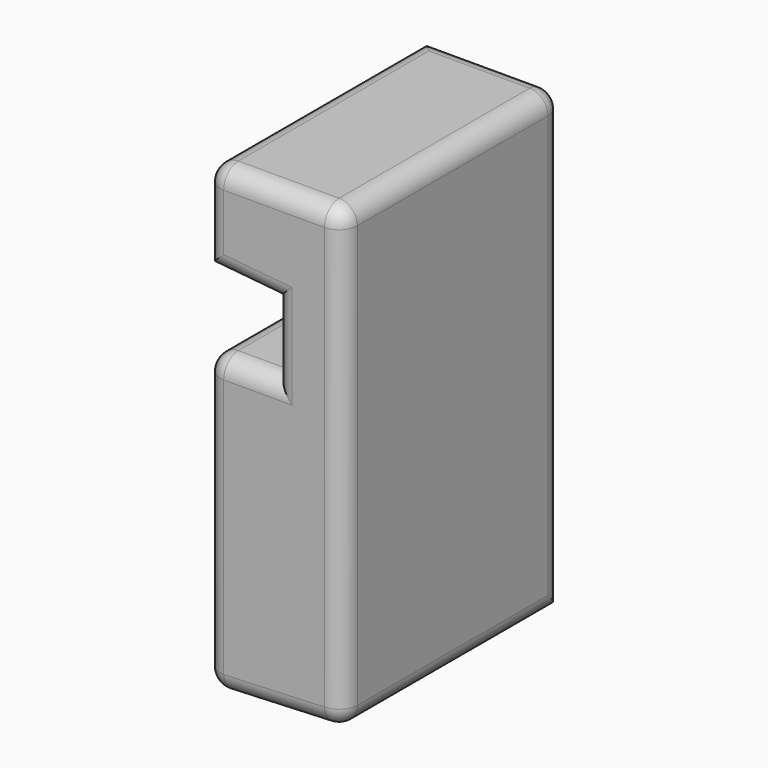
from build123d import *

# Parameters (mm, degrees)
F1_DEPTH = 76.2
F2_R     = 5.08


with BuildPart() as f1:
    # F0 (on Front) → F1 (new body)
    with BuildSketch(Plane.XZ):
        Polygon((54.803986, -76.467663), (92.903986, -74.852658), (92.903986, 52.147342), (54.803986, 52.147342), (54.803986, 26.747342), (73.763656, 24.894391), (73.763656, 5.844391), (54.803986, 5.844391), align=None)
    extrude(amount=F1_DEPTH)

    # F2
    f2_edges = [f1.edges().sort_by_distance(p)[0] for p in [
        (73.853986, -76.2, 52.147342),
        (54.803986, -38.1, 52.147342),
        (73.853986, -76.2, -75.66016),
        (92.903986, -76.2, -11.352658),
        (54.803986, -76.2, 39.447342),
        (64.283821, -76.2, 25.820867),
        (73.763656, -76.2, 15.369391),
        (64.283821, -76.2, 5.844391),
        (54.803986, -76.2, -35.311636),
        (54.803986, -38.1, 5.844391),
        (54.803986, -38.1, -76.467663),
        (54.803986, 0, -35.311636),
        (92.903986, -38.1, 52.147342),
        (73.853986, 0, 52.147342),
        (92.903986, 0, -11.352658),
        (92.903986, -38.1, -74.852658),
    ]]
    fillet(f2_edges, radius=F2_R)


solid = f1.part
